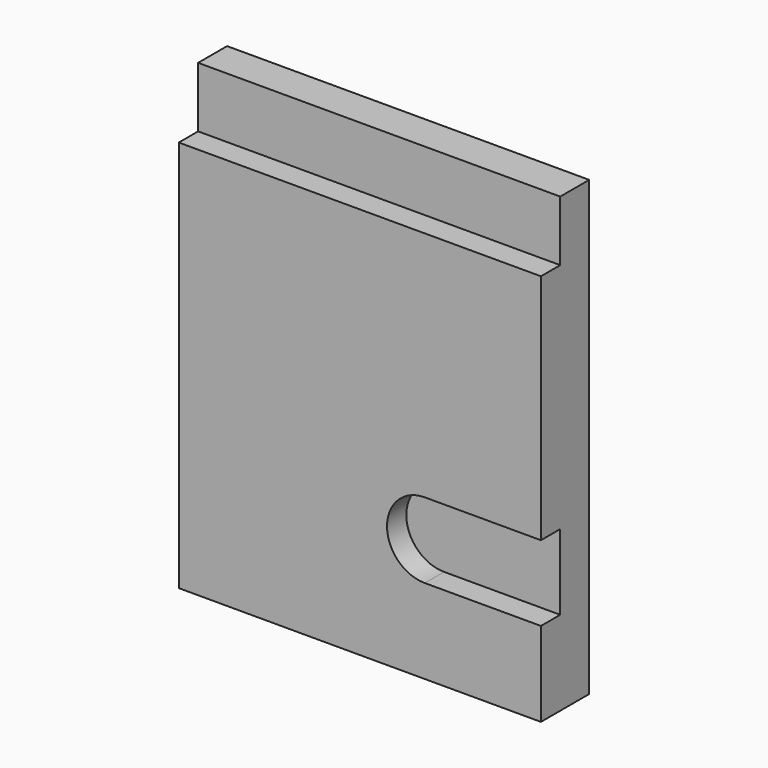
from build123d import *

# Parameters (mm, degrees)
F0_W     = 120
F0_H     = 20
F1_DEPTH = 12
F2_DEPTH = 20
F3_DEPTH = 20
F4_DEPTH = 20
F5_DEPTH = 12


with BuildPart() as f1:
    # F0 (on Front) → F1 (new body)
    with BuildSketch(Plane.XZ):
        with Locations((-60, 55.987342)):
            Rectangle(F0_W, F0_H)
    extrude(amount=F1_DEPTH)

    # F0 (on Front) → F2 (join)
    with BuildSketch(Plane.XZ):
        Polygon((0, 45.987342), (-120, 45.987342), (-120, -31.012658), (-38.5, -31.012658), (0, -31.012658), align=None)
    extrude(amount=F2_DEPTH)

    # F0 (on Front) → F3 (join)
    with BuildSketch(Plane.XZ):
        with BuildLine():
            Line((-38.5, -31.012658), (-120, -31.012658))
            Line((-120, -31.012658), (-120, -56.012658))
            Line((-120, -56.012658), (-38.5, -56.012658))
            ThreePointArc((-38.5, -56.012658), (-51, -43.512658), (-38.5, -31.012658))
        make_face()
    extrude(amount=F3_DEPTH)

    # F0 (on Front) → F4 (join)
    with BuildSketch(Plane.XZ):
        Polygon((-38.5, -56.012658), (-120, -56.012658), (-120, -84.012658), (0, -84.012658), (0, -56.012658), align=None)
    extrude(amount=F4_DEPTH)

    # F0 (on Front) → F5 (join)
    with BuildSketch(Plane.XZ):
        with BuildLine():
            Line((0, -31.012658), (-38.5, -31.012658))
            ThreePointArc((-38.5, -31.012658), (-51, -43.512658), (-38.5, -56.012658))
            Line((-38.5, -56.012658), (0, -56.012658))
            Line((0, -56.012658), (0, -31.012658))
        make_face()
    extrude(amount=F5_DEPTH)


solid = f1.part
